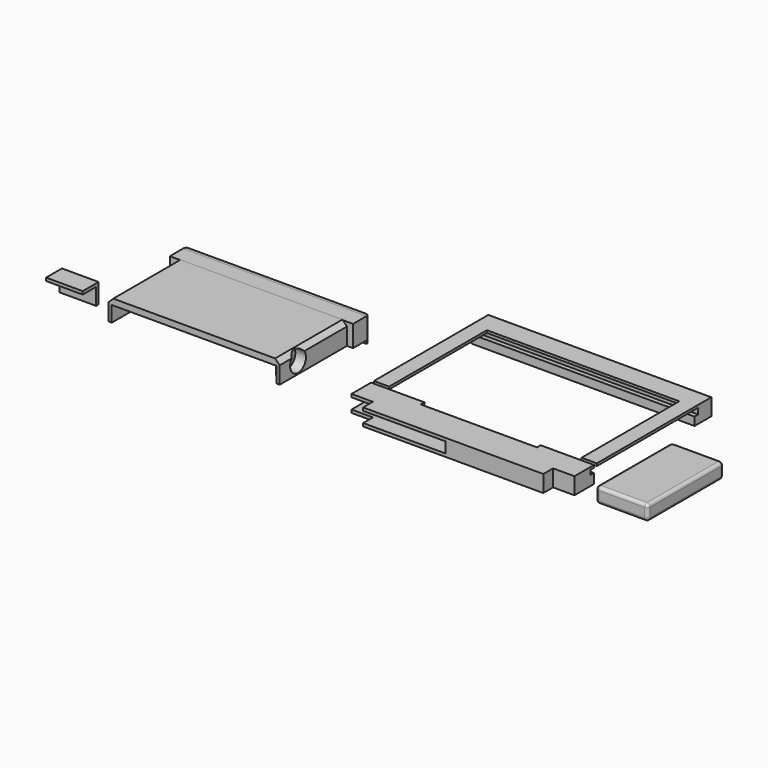
from build123d import *

# Parameters (mm, degrees)
BOX012_W          = 5
BOX012_H          = 41.5
BOX012_DEPTH      = 0.8
BOX013_W          = 5
BOX013_H          = 41.5
BOX013_DEPTH      = 0.8
BOX008_W          = 73
BOX008_H          = 1.5
BOX008_DEPTH      = 2
BOX007_W          = 73
BOX007_H          = 1.5
BOX007_DEPTH      = 5.5
BOX005_W          = 73
BOX005_H          = 5.35
BOX005_DEPTH      = 5.5
BOX015_W          = 34
BOX015_H          = 5
BOX015_DEPTH      = 3.5
BOX016_W          = 27
BOX016_H          = 4
BOX016_DEPTH      = 3.5
BOX014_W          = 5
BOX014_H          = 8
BOX014_DEPTH      = 3.5
BOX010_W          = 73
BOX010_H          = 1.5
BOX010_DEPTH      = 1.5
BOX011_W          = 38
BOX011_H          = 1.5
BOX011_DEPTH      = 5.5
BOX001_W          = 73
BOX001_H          = 6.5
BOX001_DEPTH      = 5.5
BOX009_W          = 73
BOX009_H          = 1.5
BOX009_DEPTH      = 5.5
BOX002_W          = 59
BOX002_H          = 4
BOX002_DEPTH      = 5.5
BOX044_W          = 17
BOX044_H          = 31
BOX044_DEPTH      = 5
FILLET007_R       = 1
BOX046_W          = 12
BOX046_H          = 5.5
BOX046_DEPTH      = 5.5
BOX045_W          = 12
BOX045_H          = 6.5
BOX045_DEPTH      = 6.5
CYLINDER005_R     = 3.25
CYLINDER005_DEPTH = 3.5
BOX043_W          = 3
BOX043_H          = 8
BOX043_DEPTH      = 5.5
BOX017_W          = 54
BOX017_H          = 33
BOX017_DEPTH      = 5.1
BOX026_W          = 60
BOX026_H          = 5.5
BOX026_DEPTH      = 7
BOX_W             = 56
BOX_H             = 34
BOX_DEPTH         = 5.1
BOX025_W          = 56
BOX025_H          = 27.5
BOX025_DEPTH      = 2
CHAMFER_SIZE      = 1.5
BOX047_W          = 60
BOX047_H          = 1
BOX047_DEPTH      = 8
FILLET_R          = 0.9
FILLET008_R       = 0.9


with BuildPart() as cube_front_cover_left:
    # Box012 → Box012 (new body)
    with BuildSketch(Plane(origin=(0, 9.15, 4.7), x_dir=(1, 0, 0), z_dir=(0, 0, 1))):
        with Locations((2.5, 20.75)):
            Rectangle(BOX012_W, BOX012_H)
    extrude(amount=BOX012_DEPTH)


with BuildPart() as cube_front_cover_right:
    # Box013 → Box013 (new body)
    with BuildSketch(Plane(origin=(68, 9.15, 4.7), x_dir=(1, 0, 0), z_dir=(0, 0, 1))):
        with Locations((2.5, 20.75)):
            Rectangle(BOX013_W, BOX013_H)
    extrude(amount=BOX013_DEPTH)


with BuildPart() as cube_screen_surround_top_groove_inner:
    # Box008 → Box008 (new body)
    with BuildSketch(Plane(origin=(0, 49.15, 2.7), x_dir=(1, 0, 0), z_dir=(0, 0, 1))):
        with Locations((36.5, 0.75)):
            Rectangle(BOX008_W, BOX008_H)
    extrude(amount=BOX008_DEPTH)


with BuildPart() as cube_screen_surround_top_groove_outer:
    # Box007 → Box007 (new body)
    with BuildSketch(Plane(origin=(0, 49.15, 0), x_dir=(1, 0, 0), z_dir=(0, 0, 1))):
        with Locations((36.5, 0.75)):
            Rectangle(BOX007_W, BOX007_H)
    extrude(amount=BOX007_DEPTH)


with BuildPart() as fusion002:
    # Box005 → Box005 (new body)
    with BuildSketch(Plane(origin=(0, 50.65, 0), x_dir=(1, 0, 0), z_dir=(0, 0, 1))):
        with Locations((36.5, 2.675)):
            Rectangle(BOX005_W, BOX005_H)
    extrude(amount=BOX005_DEPTH)

    # Fusion001: union Cube(screen_surround_top_groove_outer)
    add(cube_screen_surround_top_groove_outer.part)

    # Cut002: cut Cube(screen_surround_top_groove_inner)
    add(cube_screen_surround_top_groove_inner.part, mode=Mode.SUBTRACT)

    # Fusion002: union Cube(front_cover_left), Cube(front_cover_right)
    add(cube_front_cover_left.part)
    add(cube_front_cover_right.part)


with BuildPart() as cube001_wire_cutter_left_bottom:
    # Box015 → Box015 (new body)
    with BuildSketch(Plane.XY.offset(1)):
        with Locations((17, 2.5)):
            Rectangle(BOX015_W, BOX015_H)
    extrude(amount=BOX015_DEPTH)


with BuildPart() as cube002_wire_cutter_bottom:
    # Box016 → Box016 (new body)
    with BuildSketch(Plane(origin=(7, -4, 1), x_dir=(1, 0, 0), z_dir=(0, 0, 1))):
        with Locations((13.5, 2)):
            Rectangle(BOX016_W, BOX016_H)
    extrude(amount=BOX016_DEPTH)


with BuildPart() as cube_wire_cutter_left:
    # Box014 → Box014 (new body)
    with BuildSketch(Plane.XY.offset(1)):
        with Locations((2.5, 4)):
            Rectangle(BOX014_W, BOX014_H)
    extrude(amount=BOX014_DEPTH)


with BuildPart() as cube_screen_surround_bottom_groove_inner:
    # Box010 → Box010 (new body)
    with BuildSketch(Plane(origin=(0, 6.5, 3.2), x_dir=(1, 0, 0), z_dir=(0, 0, 1))):
        with Locations((36.5, 0.75)):
            Rectangle(BOX010_W, BOX010_H)
    extrude(amount=BOX010_DEPTH)


with BuildPart() as box011:
    # Box011 → Box011 (new body)
    with BuildSketch(Plane(origin=(17.5, 6.5, 0), x_dir=(1, 0, 0), z_dir=(0, 0, 1))):
        with Locations((19, 0.75)):
            Rectangle(BOX011_W, BOX011_H)
    extrude(amount=BOX011_DEPTH)


with BuildPart() as obj1:
    # Box001 → Box001 (new body)
    with BuildSketch(Plane.XY):
        with Locations((36.5, 3.25)):
            Rectangle(BOX001_W, BOX001_H)
    extrude(amount=BOX001_DEPTH)


with BuildPart() as cube_screen_surround_bottom_groove_outer:
    # Box009 → Box009 (new body)
    with BuildSketch(Plane(origin=(0, 6.5, 0), x_dir=(1, 0, 0), z_dir=(0, 0, 1))):
        with Locations((36.5, 0.75)):
            Rectangle(BOX009_W, BOX009_H)
    extrude(amount=BOX009_DEPTH)


with BuildPart() as cut006:
    # Box002 → Box002 (new body)
    with BuildSketch(Plane(origin=(7, -4, 0), x_dir=(1, 0, 0), z_dir=(0, 0, 1))):
        with Locations((29.5, 2)):
            Rectangle(BOX002_W, BOX002_H)
    extrude(amount=BOX002_DEPTH)

    # Fusion: union obj1), Cube(screen_surround_bottom_groove_outer)
    add(obj1.part)
    add(cube_screen_surround_bottom_groove_outer.part)

    # Cut: cut Box011
    add(box011.part, mode=Mode.SUBTRACT)

    # Cut003: cut Cube(screen_surround_bottom_groove_inner)
    add(cube_screen_surround_bottom_groove_inner.part, mode=Mode.SUBTRACT)

    # Cut004: cut Cube(wire_cutter_left)
    add(cube_wire_cutter_left.part, mode=Mode.SUBTRACT)

    # Cut005: cut Cube002(wire_cutter_bottom)
    add(cube002_wire_cutter_bottom.part, mode=Mode.SUBTRACT)

    # Cut006: cut Cube001(wire_cutter_left_bottom)
    add(cube001_wire_cutter_left_bottom.part, mode=Mode.SUBTRACT)


with BuildPart() as fillet007_battery_shim:
    # Box044 → Box044 (new body)
    with BuildSketch(Plane(origin=(80, 0, 0), x_dir=(1, 0, 0), z_dir=(0, 0, 1))):
        with Locations((8.5, 15.5)):
            Rectangle(BOX044_W, BOX044_H)
    extrude(amount=BOX044_DEPTH)

    # Fillet007
    fillet007_edges = [fillet007_battery_shim.edges().sort_by_distance(p)[0] for p in [
        (80, 0, 2.5),
        (80, 15.5, 5),
        (80, 31, 2.5),
        (80, 15.5, 0),
        (97, 0, 2.5),
        (97, 15.5, 5),
        (97, 31, 2.5),
        (97, 15.5, 0),
        (88.5, 0, 0),
        (88.5, 0, 5),
        (88.5, 31, 0),
        (88.5, 31, 5),
    ]]
    fillet(fillet007_edges, radius=FILLET007_R)


with BuildPart() as cube011_port_cover_inner:
    # Box046 → Box046 (new body)
    with BuildSketch(Plane(origin=(-100, 0, 0), x_dir=(1, 0, 0), z_dir=(0, 0, 1))):
        with Locations((6, 2.75)):
            Rectangle(BOX046_W, BOX046_H)
    extrude(amount=BOX046_DEPTH)


with BuildPart() as cut032_port_cover:
    # Box045 → Box045 (new body)
    with BuildSketch(Plane(origin=(-100, 0, 0), x_dir=(1, 0, 0), z_dir=(0, 0, 1))):
        with Locations((6, 3.25)):
            Rectangle(BOX045_W, BOX045_H)
    extrude(amount=BOX045_DEPTH)

    # Cut032: cut Cube011(port_cover_inner)
    add(cube011_port_cover_inner.part, mode=Mode.SUBTRACT)


with BuildPart() as cylinder003_magnet:
    # Cylinder005 → Cylinder005 (new body)
    with BuildSketch(Plane(origin=(-27, 7.5, 4.1), x_dir=(0, 0, -1), z_dir=(1, 0, 0))):
        Circle(CYLINDER005_R)
    extrude(amount=CYLINDER005_DEPTH)


with BuildPart() as cube010_magnet_back:
    # Box043 → Box043 (new body)
    with BuildSketch(Plane(origin=(-27.5, 3.5, 0.5), x_dir=(1, 0, 0), z_dir=(0, 0, 1))):
        with Locations((1.5, 4)):
            Rectangle(BOX043_W, BOX043_H)
    extrude(amount=BOX043_DEPTH)


with BuildPart() as cube_inner:
    # Box017 → Box017 (new body)
    with BuildSketch(Plane(origin=(-78.5, 0, 0.5), x_dir=(1, 0, 0), z_dir=(0, 0, 1))):
        with Locations((27, 16.5)):
            Rectangle(BOX017_W, BOX017_H)
    extrude(amount=BOX017_DEPTH)


with BuildPart() as cube002_lid_top:
    # Box026 → Box026 (new body)
    with BuildSketch(Plane(origin=(-81.5, 27.5, 0.5), x_dir=(1, 0, 0), z_dir=(0, 0, 1))):
        with Locations((30, 2.75)):
            Rectangle(BOX026_W, BOX026_H)
    extrude(amount=BOX026_DEPTH)


with BuildPart() as cube_outer:
    # Box → Box (new body)
    with BuildSketch(Plane(origin=(-79.5, 0, 0.5), x_dir=(1, 0, 0), z_dir=(0, 0, 1))):
        with Locations((28, 17)):
            Rectangle(BOX_W, BOX_H)
    extrude(amount=BOX_DEPTH)


with BuildPart() as cut034:
    # Box025 → Box025 (new body)
    with BuildSketch(Plane(origin=(-79.5, 0, 5.6), x_dir=(1, 0, 0), z_dir=(0, 0, 1))):
        with Locations((28, 13.75)):
            Rectangle(BOX025_W, BOX025_H)
    extrude(amount=BOX025_DEPTH)

    # Chamfer
    chamfer_edges = [cut034.edges().sort_by_distance(p)[0] for p in [
        (-79.5, 13.75, 7.6),
        (-23.5, 13.75, 7.6),
    ]]
    chamfer(chamfer_edges, length=CHAMFER_SIZE)

    # Fusion003: union Cube002(lid_top), Cube(outer)
    add(cube002_lid_top.part)
    add(cube_outer.part)

    # Cut033: cut Cube(inner)
    add(cube_inner.part, mode=Mode.SUBTRACT)

    # Fusion004: union Cube010(magnet_back)
    add(cube010_magnet_back.part)

    # Cut034: cut Cylinder003(magnet)
    add(cylinder003_magnet.part, mode=Mode.SUBTRACT)


with BuildPart() as fillet008:
    # Box047 → Box047 (new body)
    with BuildSketch(Plane(origin=(-81.5, 33, -0.5), x_dir=(1, 0, 0), z_dir=(0, 0, 1))):
        with Locations((30, 0.5)):
            Rectangle(BOX047_W, BOX047_H)
    extrude(amount=BOX047_DEPTH)

    # Fillet
    fillet_edges = [fillet008.edges().sort_by_distance(p)[0] for p in [
        (-81.5, 34, 3.5),
    ]]
    fillet(fillet_edges, radius=FILLET_R)

    # Fillet008
    fillet008_edges = [fillet008.edges().sort_by_distance(p)[0] for p in [
        (-21.5, 34, 3.5),
    ]]
    fillet(fillet008_edges, radius=FILLET008_R)


solid = Compound([fusion002.part, cut006.part, fillet007_battery_shim.part, cut032_port_cover.part, cut034.part, fillet008.part])
